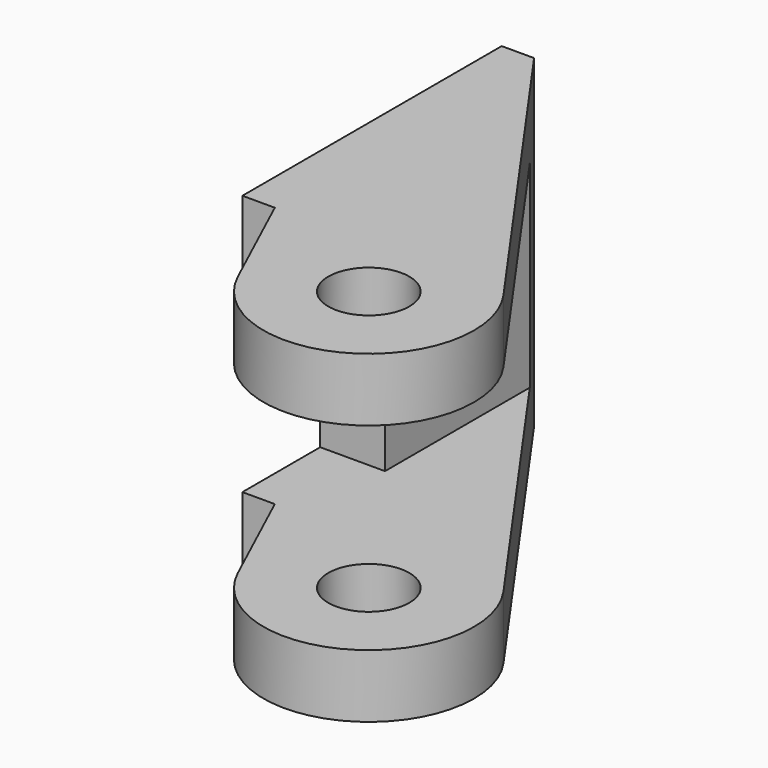
from build123d import *

# Parameters (mm, degrees)
PAD020_DEPTH         = 10
SKETCH048_R          = 2.55
SKETCH048_W          = 20
SKETCH048_H          = 12.2
POCKET016_DEPTH      = 0.001
POCKET016_DEPTH_BACK = 17.501
SKETCH049_W          = 50
SKETCH049_H          = 12.2
POCKET017_DEPTH      = 13.501
SKETCH050_R          = 2.5
POCKET018_DEPTH      = 10.001
POCKET018_DEPTH_BACK = 10.001


with BuildPart() as part:
    # Sketch047 → Pad020 (new body, symmetric)
    with BuildSketch(Plane.XY):
        with BuildLine():
            ThreePointArc((5.096581, -16.720229), (14.249301, -19.629569), (16.308429, -10.248922))
            Line((2, 10), (16.308429, -10.248922))
            Line((0, 10), (2, 10))
            Line((0, -10), (0, 10))
            Line((0, -10), (2, -10))
            Line((2, -10), (5.096581, -16.720229))
        make_face()
    extrude(amount=PAD020_DEPTH, both=True)

    # Sketch048 → Pocket016 (cut, two sides)
    with BuildSketch(Plane.YZ) as pocket016_sk:
        Circle(SKETCH048_R)
        with Locations((-14, 0)):
            Rectangle(SKETCH048_W, SKETCH048_H)
    extrude(amount=-POCKET016_DEPTH, mode=Mode.SUBTRACT)
    extrude(pocket016_sk.sketch, amount=POCKET016_DEPTH_BACK, mode=Mode.SUBTRACT)

    # Sketch049 → Pocket017 (cut, through all)
    with BuildSketch(Plane.YZ.offset(4)):
        Rectangle(SKETCH049_W, SKETCH049_H)
    extrude(amount=POCKET017_DEPTH, mode=Mode.SUBTRACT)

    # Sketch050 → Pocket018 (cut, two sides)
    with BuildSketch(Plane.XY) as pocket018_sk:
        with Locations((11, -14)):
            Circle(SKETCH050_R)
    extrude(amount=-POCKET018_DEPTH, mode=Mode.SUBTRACT)
    extrude(pocket018_sk.sketch, amount=POCKET018_DEPTH_BACK, mode=Mode.SUBTRACT)


solid = part.part
